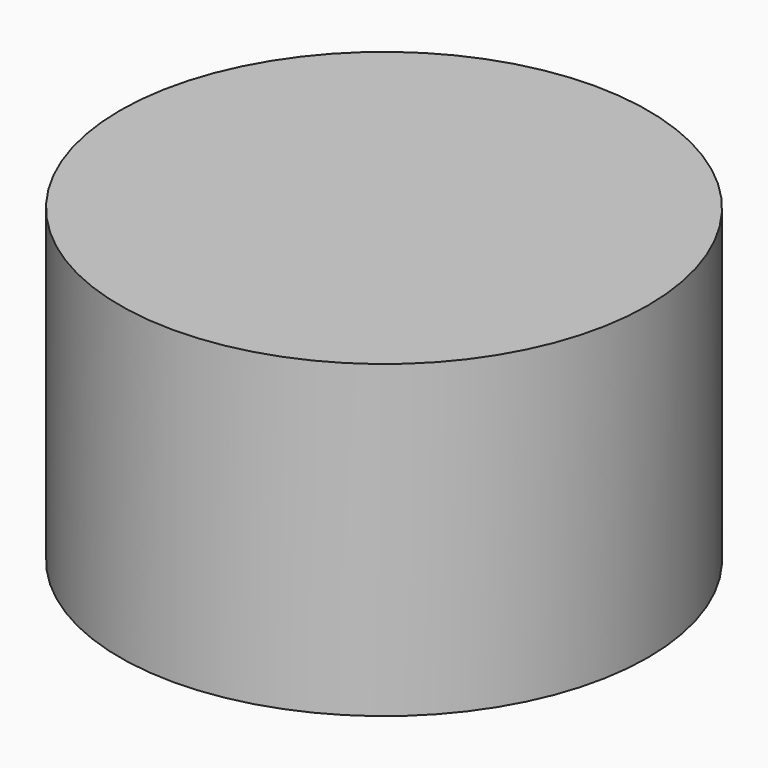
from build123d import *

# Parameters (mm, degrees)
F0_R     = 13.5189757813
F1_DEPTH = 15.875


with BuildPart() as f1:
    # F0 (on Top) → F1 (new body)
    with BuildSketch(Plane.XY):
        with Locations((-36.9026139379, 43.9157634974)):
            Circle(F0_R)
    extrude(amount=-F1_DEPTH)


solid = f1.part
